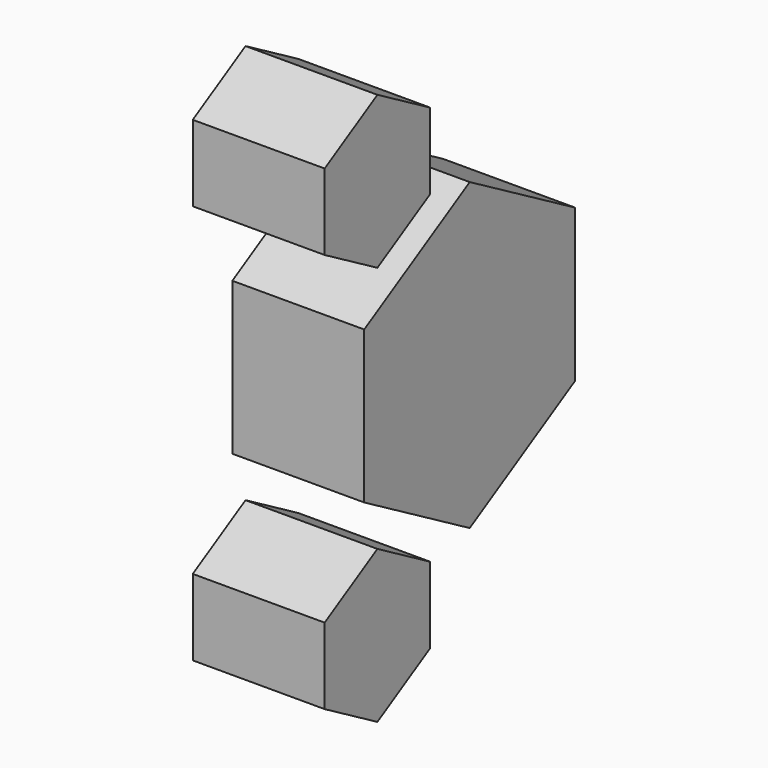
from build123d import *

# Parameters (mm, degrees)
F1_DEPTH = 50.8


with BuildPart() as f1:
    # F0 (on Right) → F1 (new body)
    with BuildSketch(Plane.YZ):
        Polygon((50.8, 29.329394), (0, 58.658787), (-50.8, 29.329394), (-50.8, -29.329394), (0, -58.658787), (50.8, -29.329394), align=None)
        Polygon((-19.05, -62.324962), (-44.45, -47.660265), (-69.85, -62.324962), (-69.85, -91.654355), (-44.45, -106.319052), (-19.05, -91.654355), align=None)
        Polygon((-19.05, 91.654355), (-44.45, 106.319052), (-69.85, 91.654355), (-69.85, 62.324962), (-44.45, 47.660265), (-19.05, 62.324962), align=None)
    extrude(amount=F1_DEPTH)


solid = f1.part
